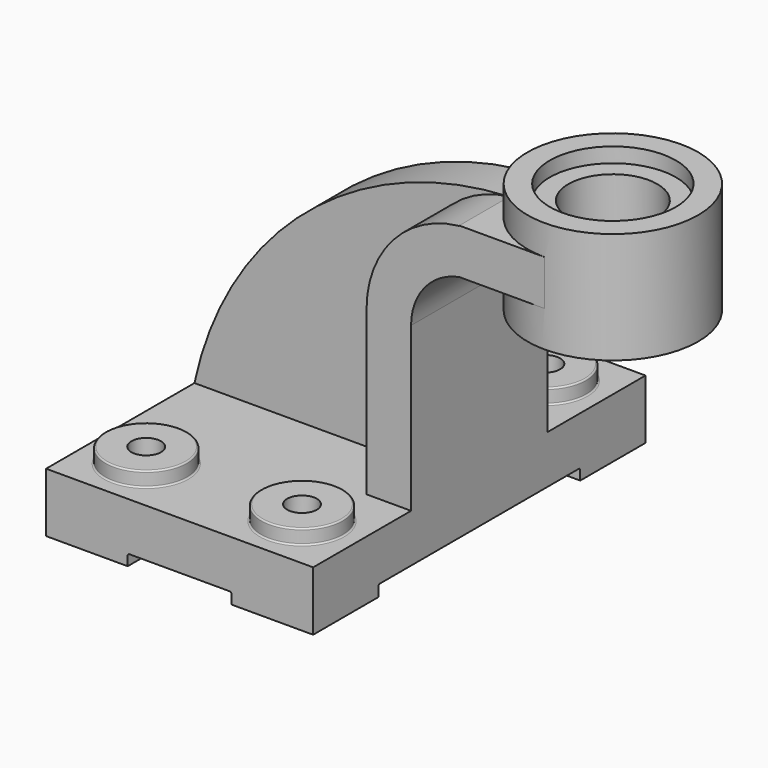
from build123d import *

# Parameters (mm, degrees)
F3_DEPTH  = 584.2
F4_DEPTH  = 584.57425
F6_DEPTH  = 152.4
F1_R      = 279.4
F1_R_2    = 101.6
F7_DEPTH  = 406.4
F8_DEPTH  = 101.6
F9_DEPTH  = 1422.401
F10_DEPTH = 1422.401
F11_DEPTH = 2.286
F12_R     = 304.8
F13_DEPTH = 2438.401
F12_R_2   = 431.8
F14_DEPTH = 101.6
F16_DEPTH = 1828.801
F17_R     = 10.16


with BuildPart() as f2:
    # F0 (on Front) → F2 (revolve)
    with BuildSketch(Plane.XZ):
        Polygon((914.4, 1524), (914.4, 1270), (1498.6, 1270), (1498.6, 2032), (914.4, 2032), (914.4, 1828.8), align=None)
    revolve(axis=Axis((914.4, 0, 1651), (0, 0, -1)))


with BuildPart() as f3:
    # F0 (on Front) → F3 (new body, symmetric)
    with BuildSketch(Plane.XZ):
        with BuildLine():
            Line((-304.8, 0), (0, 0))
            Line((0, 0), (0, 1117.6))
            ThreePointArc((0, 1117.6), (93.2477686492, 1376.6301912905), (330.2, 1516.7923345957))
            Line((330.2, 1516.7923345957), (330.2, 1824.7060740794))
            ThreePointArc((330.2, 1824.7060740794), (-122.7497330624, 1592.7904881203), (-304.8, 1117.6))
            Line((-304.8, 1117.6), (-304.8, 0))
        make_face()
    extrude(amount=F3_DEPTH, both=True)


with BuildPart() as f4:
    # F4 (new): a face of the model
    f4_faces = [f3.part.faces().sort_by_distance(p)[0] for p in [
        (330.2, 0, 1670.7492043376),
    ]]
    extrude(f4_faces, amount=F4_DEPTH)


with BuildPart() as f2_1:
    add(f2.part)

    # F5: union F3, F4
    add(f3.part)
    add(f4.part)



with BuildPart() as f6:
    # F0 (on Front) → F6 (new body, symmetric)
    with BuildSketch(Plane.XZ):
        with BuildLine():
            Line((-563.1106240493, 0), (-304.8, 0))
            Line((-304.8, 0), (-304.8, 1117.6))
            ThreePointArc((-304.8, 1117.6), (-122.7497330624, 1592.7904881203), (330.2, 1824.7060740794))
            ThreePointArc((330.2, 1824.7060740794), (-1060.7566004757, 1280.8698135108), (-1828.8, 0))
            Line((-1828.8, 0), (-563.1106240493, 0))
        make_face()
    extrude(amount=F6_DEPTH, both=True)


with BuildPart() as f2_2:
    add(f2_1.part)

    add(f6.part)  # F7 merges F6
    # F1 (on Top) → F7 (join)
    with BuildSketch(Plane.XY):
        Polygon((-1828.8, 1422.4), (-1828.8, 0), (-1828.8, -1422.4), (0, -1422.4), (0, 1422.4), align=None)
        with Locations((-1447.8, -1041.4)):
            Circle(F1_R, mode=Mode.SUBTRACT)
        with Locations((-381, -1041.4)):
            Circle(F1_R, mode=Mode.SUBTRACT)
        with Locations((-1447.8, 1041.4)):
            Circle(F1_R, mode=Mode.SUBTRACT)
        with Locations((-381, 1041.4)):
            Circle(F1_R, mode=Mode.SUBTRACT)
        with Locations((-1447.8, -1041.4)):
            Circle(F1_R)
        with Locations((-1447.8, -1041.4)):
            Circle(F1_R_2, mode=Mode.SUBTRACT)
        with Locations((-381, -1041.4)):
            Circle(F1_R)
        with Locations((-381, -1041.4)):
            Circle(F1_R_2, mode=Mode.SUBTRACT)
        with Locations((-381, 1041.4)):
            Circle(F1_R)
        with Locations((-381, 1041.4)):
            Circle(F1_R_2, mode=Mode.SUBTRACT)
        with Locations((-1447.8, 1041.4)):
            Circle(F1_R)
        with Locations((-1447.8, 1041.4)):
            Circle(F1_R_2, mode=Mode.SUBTRACT)
    extrude(amount=-F7_DEPTH)

    # F1 (on Top) → F8 (join)
    with BuildSketch(Plane.XY):
        with Locations((-1447.8, -1041.4)):
            Circle(F1_R)
        with Locations((-1447.8, -1041.4)):
            Circle(F1_R_2, mode=Mode.SUBTRACT)
        with Locations((-381, -1041.4)):
            Circle(F1_R)
        with Locations((-381, -1041.4)):
            Circle(F1_R_2, mode=Mode.SUBTRACT)
        with Locations((-381, 1041.4)):
            Circle(F1_R)
        with Locations((-381, 1041.4)):
            Circle(F1_R_2, mode=Mode.SUBTRACT)
        with Locations((-1447.8, 1041.4)):
            Circle(F1_R)
        with Locations((-1447.8, 1041.4)):
            Circle(F1_R_2, mode=Mode.SUBTRACT)
    extrude(amount=F8_DEPTH)

    # F0 (on Front) → F9 (cut, through all)
    with BuildSketch(Plane.XZ):
        with BuildLine():
            Line((-1270, -406.4), (-558.8, -406.4))
            Line((-558.8, -406.4), (-558.8, -342.9))
            ThreePointArc((-558.8, -342.9), (-562.5197438789, -333.9197438789), (-571.5, -330.2))
            Line((-571.5, -330.2), (-1257.3, -330.2))
            ThreePointArc((-1257.3, -330.2), (-1266.2802561211, -333.9197438789), (-1270, -342.9))
            Line((-1270, -342.9), (-1270, -406.4))
        make_face()
    extrude(amount=F9_DEPTH, mode=Mode.SUBTRACT)

    # F0 (on Front) → F10 (cut, through all)
    with BuildSketch(Plane.XZ):
        with BuildLine():
            Line((-1270, -406.4), (-558.8, -406.4))
            Line((-558.8, -406.4), (-558.8, -342.9))
            ThreePointArc((-558.8, -342.9), (-562.5197438789, -333.9197438789), (-571.5, -330.2))
            Line((-571.5, -330.2), (-1257.3, -330.2))
            ThreePointArc((-1257.3, -330.2), (-1266.2802561211, -333.9197438789), (-1270, -342.9))
            Line((-1270, -342.9), (-1270, -406.4))
        make_face()
    extrude(amount=-F10_DEPTH, mode=Mode.SUBTRACT)

    # F11 (add): faces of the model
    f11_faces = [f2_2.faces().sort_by_distance(p)[0] for p in [
        (460.6915499321, -453.7084500679, 1824.7060740794),
        (460.6915499321, 453.7084500679, 1824.7060740794),
    ]]
    extrude(f11_faces, amount=F11_DEPTH)

    # F12 (on face) → F13 (cut, through all)
    with BuildSketch(Plane.XY.offset(2032)):
        with Locations((914.4, 0)):
            Circle(F12_R)
    extrude(amount=-F13_DEPTH, mode=Mode.SUBTRACT)

    # F12 (on face) → F14 (cut)
    with BuildSketch(Plane.XY.offset(2032)):
        with Locations((914.4, 0)):
            Circle(F12_R_2)
        with Locations((914.4, 0)):
            Circle(F12_R, mode=Mode.SUBTRACT)
    extrude(amount=-F14_DEPTH, mode=Mode.SUBTRACT)

    # F15 (on face) → F16 (cut, through all)
    with BuildSketch(Plane.YZ):
        with BuildLine():
            Line((-863.6, -342.9), (-863.6, -406.4))
            Line((-863.6, -406.4), (863.6, -406.4))
            Line((863.6, -406.4), (863.6, -342.9))
            ThreePointArc((863.6, -342.9), (859.8802561211, -333.9197438789), (850.9, -330.2))
            Line((850.9, -330.2), (-850.9, -330.2))
            ThreePointArc((-850.9, -330.2), (-859.8802561211, -333.9197438789), (-863.6, -342.9))
        make_face()
    extrude(amount=-F16_DEPTH, mode=Mode.SUBTRACT)

    # F17
    f17_edges = [f2_2.edges().sort_by_distance(p)[0] for p in [
        (-1168.4, -1041.4, 50.8),
        (-1727.2, -1041.4, 0),
        (-1727.2, -1041.4, 101.6),
        (-101.6, -1041.4, 50.8),
        (-660.4, -1041.4, 0),
        (-660.4, -1041.4, 101.6),
        (-101.6, 1041.4, 50.8),
        (-660.4, 1041.4, 0),
        (-660.4, 1041.4, 101.6),
    ]]
    fillet(f17_edges, radius=F17_R)


solid = f2_2.part
